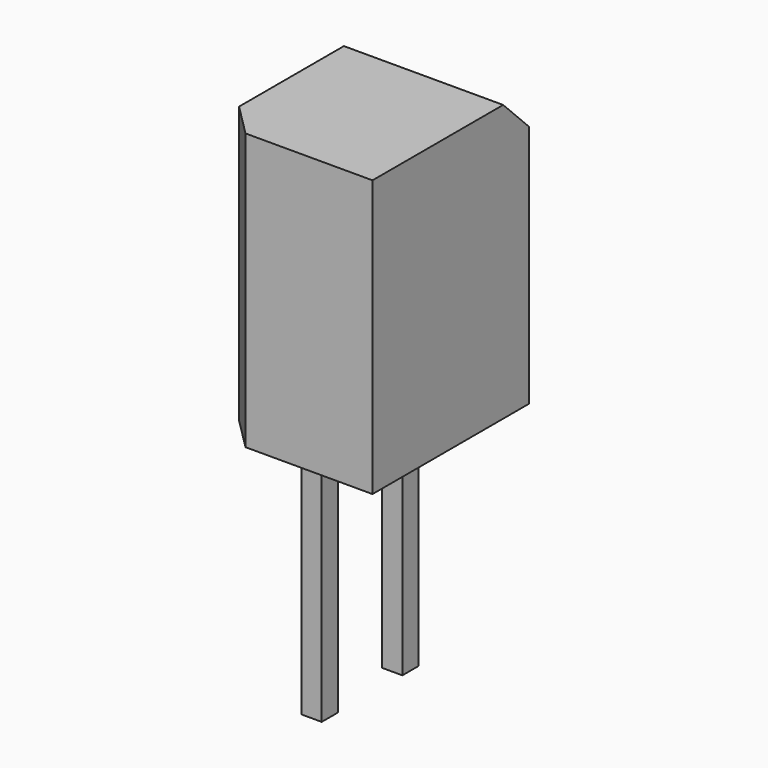
from build123d import *

# Parameters (mm, degrees)
F0_W     = 3.95
F0_H     = 6.85
F1_DEPTH = 2.425
F2_SIZE  = 0.8
F3_W     = 0.5
F3_H     = 0.5
F4_DEPTH = 6


with BuildPart() as f1:
    # F0 (on Front) → F1 (new body, symmetric)
    with BuildSketch(Plane.XZ):
        with Locations((0, 3.425)):
            Rectangle(F0_W, F0_H)
    extrude(amount=F1_DEPTH, both=True)

    # F2
    f2_edges = [f1.edges().sort_by_distance(p)[0] for p in [
        (0, 2.425, 6.85),
        (-1.975, -2.425, 3.425),
        (-1.975, 2.425, 3.425),
    ]]
    chamfer(f2_edges, length=F2_SIZE)

    # F3 (on face) → F4 (join)
    with BuildSketch(Plane(origin=(0, 0, 0), x_dir=(1, 0, 0), z_dir=(0, 0, -1))):
        with Locations((-0.275, 1.25)):
            Rectangle(F3_W, F3_H)
        with Locations((-0.275, -1.25)):
            Rectangle(F3_W, F3_H)
    extrude(amount=F4_DEPTH)


solid = f1.part
